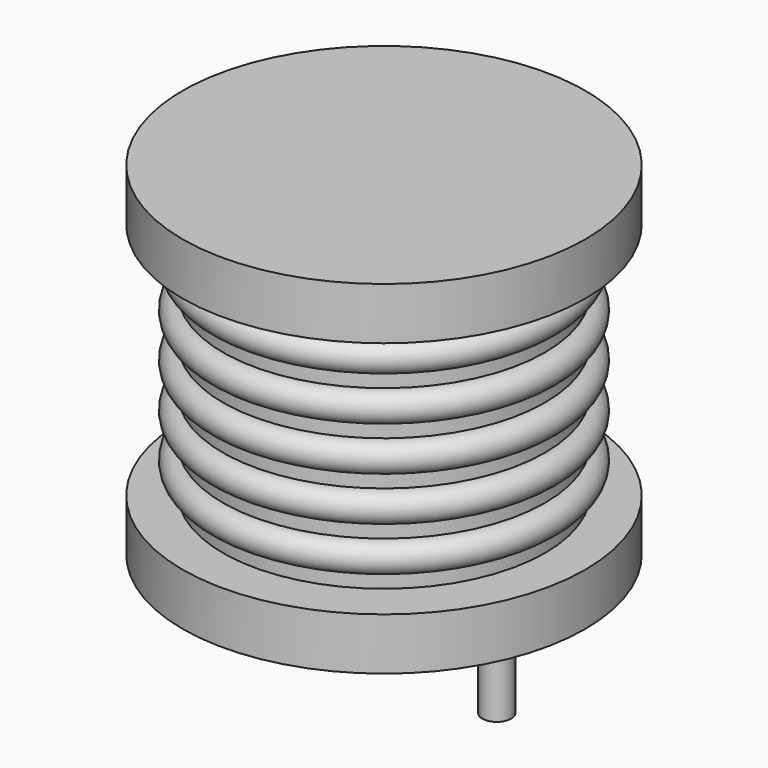
from build123d import *

# Parameters (mm, degrees)
SKETCH001_R  = 0.45
PAD001_DEPTH = 3.5


with BuildPart() as pad001:
    # Sketch001 → Pad001 (new body)
    with BuildSketch(Plane.XY.offset(0.5)):
        Circle(SKETCH001_R)
        with Locations((7, 0)):
            Circle(SKETCH001_R)
    extrude(amount=-PAD001_DEPTH)


with BuildPart() as revolution:
    # Sketch → Revolution (revolve)
    with BuildSketch(Plane(origin=(3.5, 0, 0), x_dir=(1, 0, 0), z_dir=(0, -1, 0))):
        Polygon((0, 0.05), (2.6, 0.05), (2.6, 0.2), (6.25, 0.2), (6.25, 1.82), (1.25, 1.82), (1.25, 9.23), (6.25, 9.23), (6.25, 10.85), (0, 10.85), align=None)
    revolve(axis=Axis((3.5, 0, 0), (0, 0, 1)))


with BuildPart() as revolution001:
    # Sketch002 → Revolution001 (revolve)
    with BuildSketch(Plane(origin=(3.5, 0, 0), x_dir=(1, 0, 0), z_dir=(0, -1, 0))):
        with BuildLine():
            Line((5, 1.87), (1.25, 1.87))
            Line((1.25, 1.87), (1.25, 9.18))
            Line((1.25, 9.18), (5, 9.18))
            Line((5, 9.18), (5, 8.723125))
            ThreePointArc((5, 7.809375), (5.456875, 8.26625), (5, 8.723125))
            Line((5, 7.809375), (5, 7.3525))
            ThreePointArc((5, 6.43875), (5.456875, 6.895625), (5, 7.3525))
            Line((5, 6.43875), (5, 5.981875))
            ThreePointArc((5, 5.068125), (5.456875, 5.525), (5, 5.981875))
            Line((5, 5.068125), (5, 4.61125))
            ThreePointArc((5, 3.6975), (5.456875, 4.154375), (5, 4.61125))
            Line((5, 3.6975), (5, 3.240625))
            ThreePointArc((5, 2.326875), (5.456875, 2.78375), (5, 3.240625))
            Line((5, 1.87), (5, 2.326875))
        make_face()
    revolve(axis=Axis((3.5, 0, 0), (0, 0, 1)))


solid = Compound([pad001.part, revolution.part, revolution001.part])
